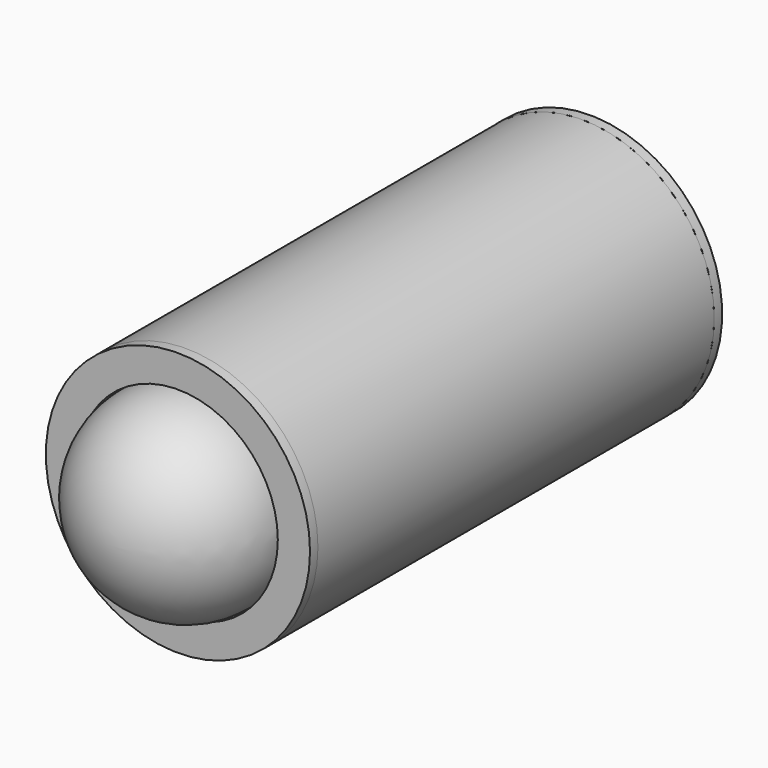
from build123d import *

# Parameters (mm, degrees)
F0_R      = 40
F0_R_2    = 37
F1_DEPTH  = 150
F4_R      = 40
F4_R_2    = 30.25
F5_DEPTH  = 3
F6_R      = 33
F7_DEPTH  = 6
F8_R      = 40
F9_DEPTH  = 3
F10_R     = 32.25
F11_DEPTH = 6
F12_R     = 36.5
F13_DEPTH = 3
F15_DEPTH = 183.001
F17_DEPTH = 3


with BuildPart() as f1:
    # F0 (on Front) → F1 (new body)
    with BuildSketch(Plane.XZ):
        Circle(F0_R)
        Circle(F0_R_2, mode=Mode.SUBTRACT)
    extrude(amount=F1_DEPTH)


with BuildPart() as f3:
    # F2 (on Top) → F3 (revolve)
    with BuildSketch(Plane.XY):
        with BuildLine():
            ThreePointArc((0, -180), (21.2132034356, -171.2132034356), (30, -150))
            Line((30, -150), (33, -150))
            Line((33, -150), (33, -148.5))
            Line((33, -148.5), (28, -148.5))
            Line((28, -148.5), (28, -150))
            ThreePointArc((28, -150), (19.7989898732, -169.7989898732), (0, -178))
            Line((0, -178), (0, -180))
        make_face()
    revolve(axis=Axis((0, -179, 0), (0, 1, 0)))


with BuildPart() as f5:
    # F4 (on face) → F5 (new body)
    with BuildSketch(Plane.XZ.offset(150)):
        Circle(F4_R)
        Circle(F4_R_2, mode=Mode.SUBTRACT)
    extrude(amount=F5_DEPTH)


with BuildPart() as f7:
    # F6 (on face) → F7 (new body)
    with BuildSketch(Plane(origin=(0, -148.5, 0), x_dir=(-1, 0, 0), z_dir=(0, 1, 0))):
        Circle(F6_R)
        with BuildLine():
            ThreePointArc((-29.8815789474, 2.662938154), (0, 30), (29.8815789474, 2.662938154))
            ThreePointArc((29.8815789474, 2.662938154), (31.0636630865, 1.5580858702), (31.5, 0))
            ThreePointArc((31.5, 0), (31.0636630865, -1.5580858702), (29.8815789474, -2.662938154))
            ThreePointArc((29.8815789474, -2.662938154), (0, -30), (-29.8815789474, -2.662938154))
            ThreePointArc((-29.8815789474, -2.662938154), (-31.5, 0), (-29.8815789474, 2.662938154))
        make_face(mode=Mode.SUBTRACT)
    extrude(amount=F7_DEPTH)


with BuildPart() as f9:
    # F8 (on face) → F9 (new body)
    with BuildSketch(Plane(origin=(0, 0, 0), x_dir=(-1, 0, 0), z_dir=(0, 1, 0))):
        Circle(F8_R)
    extrude(amount=F9_DEPTH)


with BuildPart() as f11:
    # F10 (on face) → F11 (new body)
    with BuildSketch(Plane.XZ):
        Circle(F10_R)
    extrude(amount=F11_DEPTH)


with BuildPart() as f13:
    # F12 (on face) → F13 (new body)
    with BuildSketch(Plane.XZ.offset(6)):
        Circle(F12_R)
    extrude(amount=F13_DEPTH)


with BuildPart() as f15_tool:
    # F14 (on face) → F15 (new body, through all)
    with BuildSketch(Plane(origin=(0, 3, 0), x_dir=(-1, 0, 0), z_dir=(0, 1, 0))):
        with BuildLine():
            Line((-5.7912985909, 19.1963108418), (-12.8782985909, 20.3365394891))
            ThreePointArc((-12.8782985909, 20.3365394891), (-14.3202541352, 19.9327172046), (-14.948, 18.5732160614))
            Line((-14.948, 18.5732160614), (-14.948, -18.5732160614))
            ThreePointArc((-14.948, -18.5732160614), (-14.3202541352, -19.9327172046), (-12.8782985909, -20.3365394891))
            Line((-12.8782985909, -20.3365394891), (-5.7912985909, -19.1963108418))
            ThreePointArc((-5.7912985909, -19.1963108418), (-4.7154988568, -18.5912415494), (-4.289, -17.4329874142))
            Line((-4.289, -17.4329874142), (-4.289, 17.4329874142))
            ThreePointArc((-4.289, 17.4329874142), (-4.7154988568, 18.5912415494), (-5.7912985909, 19.1963108418))
        make_face()
    extrude(amount=-F15_DEPTH)


with BuildPart() as f9_1:
    add(f9.part)

    # F15: cut by f15_tool
    add(f15_tool.part, mode=Mode.SUBTRACT)


with BuildPart() as f11_1:
    add(f11.part)

    # F15: cut by f15_tool
    add(f15_tool.part, mode=Mode.SUBTRACT)


with BuildPart() as f13_1:
    add(f13.part)

    # F15: cut by f15_tool
    add(f15_tool.part, mode=Mode.SUBTRACT)


with BuildPart() as f17:
    # F16 (on face) → F17 (new body)
    with BuildSketch(Plane(origin=(0, 3, 0), x_dir=(-1, 0, 0), z_dir=(0, 1, 0))):
        with BuildLine():
            Line((-5.394180157, 21.6645687193), (-12.481180157, 22.8047973665))
            ThreePointArc((-12.481180157, 22.8047973665), (-15.941550517, 21.8357143256), (-17.448, 18.5732160614))
            Line((-17.448, 18.5732160614), (-17.448, -18.5732160614))
            ThreePointArc((-17.448, -18.5732160614), (-15.941550517, -21.8357143256), (-12.481180157, -22.8047973665))
            Line((-12.481180157, -22.8047973665), (-5.394180157, -21.6645687193))
            ThreePointArc((-5.394180157, -21.6645687193), (-2.8125017359, -20.2125379312), (-1.789, -17.4329874142))
            Line((-1.789, -17.4329874142), (-1.789, 17.4329874142))
            ThreePointArc((-1.789, 17.4329874142), (-2.8125017359, 20.2125379312), (-5.394180157, 21.6645687193))
        make_face()
        with BuildLine():
            Line((-14.948, -18.5732160614), (-14.948, 18.5732160614))
            ThreePointArc((-14.948, 18.5732160614), (-14.3202541352, 19.9327172046), (-12.8782985909, 20.3365394891))
            Line((-12.8782985909, 20.3365394891), (-5.7912985909, 19.1963108418))
            ThreePointArc((-5.7912985909, 19.1963108418), (-4.7154988568, 18.5912415494), (-4.289, 17.4329874142))
            Line((-4.289, 17.4329874142), (-4.289, -17.4329874142))
            ThreePointArc((-4.289, -17.4329874142), (-4.7154988568, -18.5912415494), (-5.7912985909, -19.1963108418))
            Line((-5.7912985909, -19.1963108418), (-12.8782985909, -20.3365394891))
            ThreePointArc((-12.8782985909, -20.3365394891), (-14.3202541352, -19.9327172046), (-14.948, -18.5732160614))
        make_face(mode=Mode.SUBTRACT)
    extrude(amount=F17_DEPTH)


solid = Compound([f1.part, f3.part, f5.part, f7.part, f9_1.part, f11_1.part, f13_1.part, f17.part])
